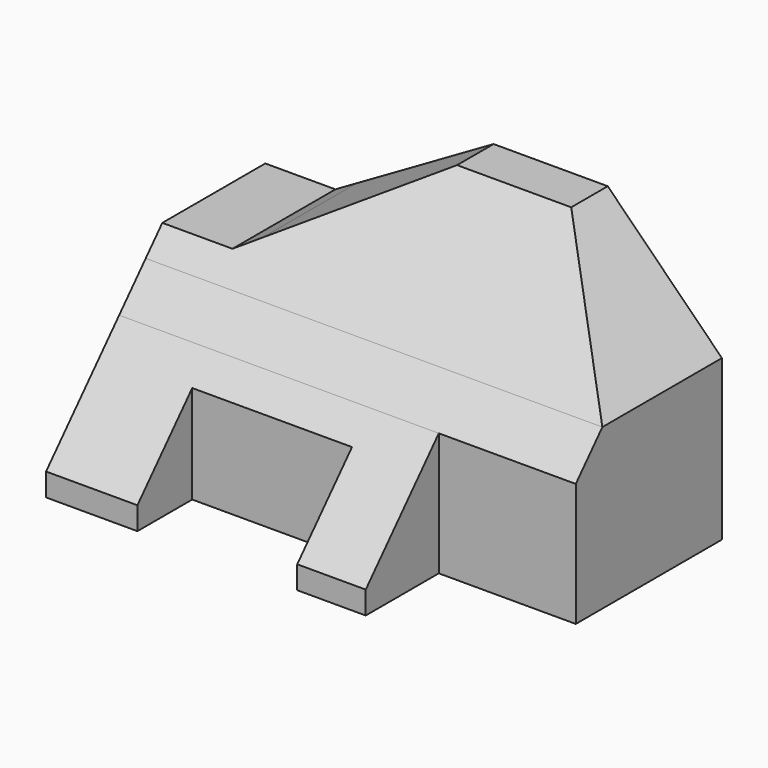
from build123d import *

# Parameters (mm, degrees)
F1_DEPTH = 60
F3_DEPTH = 60.001
F5_DEPTH = 100.001


with BuildPart() as f1:
    # F0 (on Top) → F1 (new body)
    with BuildSketch(Plane.XY):
        Polygon((0, 60), (0, 0), (20, 0), (20, 15), (55, 15), (55, 0), (70, 0), (70, 20), (100, 20), (100, 60), align=None)
    extrude(amount=F1_DEPTH)

    # F2 (on face) → F3 (cut, through all)
    with BuildSketch(Plane.XZ):
        Polygon((0, 60), (0, 40), (15.3589838486, 40), (20, 42.6794919243), (20, 60), align=None)
        Polygon((20, 60), (20, 42.6794919243), (50, 60), align=None)
        Polygon((100, 60), (75, 60), (100, 35), align=None)
    extrude(amount=-F3_DEPTH, mode=Mode.SUBTRACT)

    # F4 (on face) → F5 (cut, through all)
    with BuildSketch(Plane.YZ.offset(100)):
        Polygon((27.2727272727, 35), (50, 60), (0, 60), (0, 5), (20, 27), (20, 35), align=None)
        Polygon((20, 27), (27.2727272727, 35), (20, 35), align=None)
    extrude(amount=-F5_DEPTH, mode=Mode.SUBTRACT)


solid = f1.part
